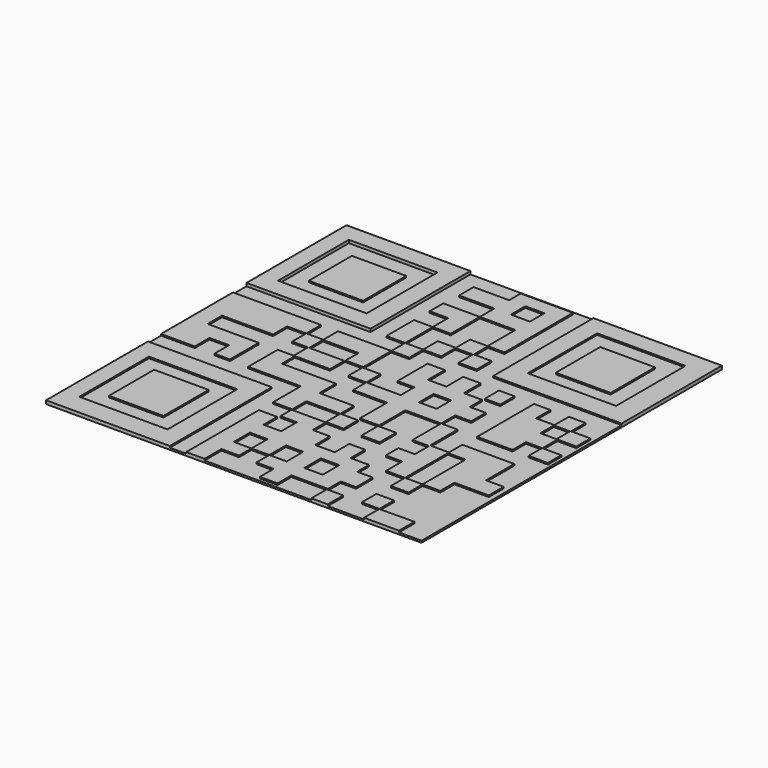
from build123d import *

# Parameters (mm, degrees)
F0_W        = 635
F0_H        = 635
F1_DEPTH    = 3.175
F2_W        = 209.6944722533
F2_H        = 211.2968239188
F2_W_2      = 149.8261988163
F2_H_2      = 149.8262137175
F3_DEPTH    = 2.54
F2_W_3      = 32.1976058185
F2_H_3      = 30.6512415409
F2_W_4      = 217.3748660088
F2_H_4      = 211.9792598486
F2_W_5      = 149.2767781019
F2_H_5      = 146.6111242771
F2_W_6      = 209.2869701982
F2_H_6      = 215.4600593448
F2_W_7      = 149.2767930031
F2_H_7      = 147.1442580223
F2_W_8      = 29.6232927265
F2_H_8      = 30.9097021818
F2_W_9      = 27.2096395493
F2_H_9      = 28.6465045065
F2_W_10     = 92.231720686
F2_H_10     = 95.430508256
F2_W_11     = 92.76483953
F2_H_11     = 93.8311070204
F2_W_12     = 91.8705165386
F2_H_12     = 91.0118967295
F2_W_13     = 30.6055098772
F2_H_13     = 34.7449108958
F2_W_14     = 29.8553556204
F2_H_14     = 30.9216082096
F2_W_15     = 26.2726545334
F2_H_15     = 30.0752855837
F3_FACE_W   = 209.6944722533
F3_FACE_H   = 211.2968239188
F3_FACE_W_2 = 149.8261988163
F3_FACE_H_2 = 149.8262137175
F4_DEPTH    = 2.54
F2_W_16     = 31.1304271547
F2_H_16     = 35.1866483688
F5_DEPTH    = 2.54


with BuildPart() as f1:
    # F0 (on Top) → F1 (new body)
    with BuildSketch(Plane.XY):
        Rectangle(F0_W, F0_H)
    extrude(amount=-F1_DEPTH)

    # F2 (on face) → F3 (join)
    with BuildSketch(Plane.XY):
        with Locations((-212.6527638733, 211.8515880406)):
            Rectangle(F2_W, F2_H)
        with Locations((-214.0576392412, 212.0259776711)):
            Rectangle(F2_W_2, F2_H_2, mode=Mode.SUBTRACT)
    extrude(amount=F3_DEPTH)

    # F2 (on face) + F3_face (on face) → F4 (join)
    with BuildSketch(Plane.XY):
        Polygon((-168.5702949762, 77.6107981801), (-317.5, 77.6107981801), (-317.5, 16.7245138437), (-317.5, -74.5474770665), (-260.3899538517, -74.5474770665), (-260.3899538517, -43.4351153672), (-227.2034436464, -43.4351153672), (-227.2034436464, -74.5474770665), (-200.9307742119, -74.5474770665), (-200.9307742119, -13.7055246159), (-287.3540222645, -13.7055246159), (-287.3540222645, 16.7245138437), (-201.0654211044, 16.7245138437), (-201.0654211044, 46.4541018009), (-168.5830503702, 46.4541018009), (-168.5702949762, 46.447314322), (-168.5702949762, 16.7245138437), (-141.8288499117, 16.7245138437), (-141.8288499117, -13.5401450098), (-168.9900159836, -13.5401450098), (-168.9900159836, -75.9165138006), (-79.9570903182, -75.9165138006), (-79.9570903182, -134.560957551), (-47.4360659719, -134.560957551), (-47.4360659719, -104.7903824272), (9.5522978624, -104.7903824272), (9.5522978624, -105.1713824272), (9.9332978624, -105.1713824272), (9.9332978624, -135.1788643422), (10.4664437147, -135.1788643422), (39.7886544141, -135.1788643422), (39.7886544141, -104.7903824272), (10.3142978624, -104.7903824272), (10.3142978624, -104.4093824272), (9.9332978624, -104.4093824272), (9.9332978624, -75.9165138006), (-48.5023371875, -75.9165138006), (-48.5023371875, -41.2629768252), (-139.8267149925, -41.2629768252), (-139.8267149925, -13.5401450098), (-80.4902166128, -13.5401450098), (-80.4902166128, 16.7245138437), (-139.8267149925, 16.7245138437), (-139.8267149925, 45.8424836397), (-79.7245129943, 45.8424836397), (-79.7245129943, 18.3671917766), (-49.6734045446, 18.3671917766), (-49.6734045446, 77.4913057685), (-49.6047325432, 77.6107981801), (-19.1930029541, 77.6107981801), (-19.1930029541, 106.7331805825), (-19.1227328032, 106.8032905459), (11.2873986363, 106.8032905459), (11.2873986363, 136.7472559214), (40.9091971815, 136.7472559214), (40.9091971815, 106.8032905459), (71.3896006346, 106.8032905459), (71.3896006346, 137.7130001783), (41.783683002, 137.7130001783), (41.783683002, 167.7640974522), (69.6723908186, 167.7640974522), (69.6723908186, 226.578399539), (69.6723908186, 257.3172748089), (69.6723908186, 312.4386966228), (40.9091971815, 312.4386966228), (-18.7637023628, 312.4386966228), (-18.7637023628, 287.9685163498), (-78.8659080863, 287.9685163498), (-78.8659080863, 257.3172748089), (-19.1930029541, 257.3172748089), (-19.1930029541, 226.578399539), (-81.0124129057, 226.578399539), (-81.0124129057, 197.8152096272), (-49.6734045446, 197.8152096272), (-49.6734045446, 165.1882976294), (-81.4417153597, 165.1882976294), (-81.4417153597, 106.8032905459), (-49.6734045446, 106.8032905459), (-49.6734045446, 77.6107981801), (-139.8267149925, 77.6107981801), (-139.8267149925, 46.4541018009), (-168.5702949762, 46.4541018009), align=None)
        Polygon((-19.1930029541, 226.2380719185), (-18.9881902188, 226.578399539), (40.9091971815, 226.578399539), (40.9091971815, 167.7640974522), (11.2873986363, 167.7640974522), (11.2873986363, 137.7130001783), (-19.1930029541, 137.7130001783), (-19.1930029541, 106.8032905459), (-49.6560074389, 106.8032905459), (-49.6734045446, 106.8312078714), (-49.6734045446, 165.1445329189), (-49.6125072241, 165.1882976294), (-19.1930029541, 165.1882976294), align=None, mode=Mode.SUBTRACT)
        with Locations((24.8103942722, 272.6428955793)):
            Rectangle(F2_W_3, F2_H_3, mode=Mode.SUBTRACT)
        with Locations((208.8125669956, 211.5103700757)):
            Rectangle(F2_W_4, F2_H_4)
        with Locations((205.685146153, 213.4798318148)):
            Rectangle(F2_W_5, F2_H_5, mode=Mode.SUBTRACT)
        with Locations((-212.8565149009, -209.7699703276)):
            Rectangle(F2_W_6, F2_H_6)
        with Locations((-214.839309454, -208.6662054062)):
            Rectangle(F2_W_7, F2_H_7, mode=Mode.SUBTRACT)
        Polygon((-49.6734045446, 16.7245138437), (-49.6734045446, -13.4011181071), (-19.5731539279, -13.4011181071), (-19.1930029541, -13.6714540422), (-19.1930029541, -41.3777343929), (10.5342995375, -41.3777343929), (38.3413806558, -41.3777343929), (38.3413806558, -45.5287843943), (38.3413806558, -98.9071950316), (70.7829669118, -98.9071950316), (70.7829669118, -43.4368926706), (100.4062596383, -43.4368926706), (130.9349692707, -43.4368926706), (130.9349692707, -43.8178926706), (131.3159692707, -43.8178926706), (131.3159692707, -103.8126278343), (159.1561358747, -103.8126278343), (159.1561358747, -133.6679834547), (131.3159692707, -133.6679834547), (131.3159692707, -160.3245515051), (159.1561358747, -160.3245515051), (159.1561358747, -194.5538896742), (190.7630115747, -194.5538896742), (190.7630115747, -194.9348896742), (191.1440115747, -194.9348896742), (191.1440115747, -224.4092303934), (220.9993671951, -224.4092303934), (220.9993671951, -194.9348896742), (221.3803671951, -194.9348896742), (221.3803671951, -194.5538896742), (250.8547228155, -194.5538896742), (250.8547228155, -164.6985340538), (279.1106921015, -164.6985340538), (308.9660328207, -164.6985340538), (308.9660328207, -133.2437771978), (279.1106921015, -133.2437771978), (279.1106921015, -73.4241384687), (250.8547228155, -73.4241384687), (220.9993671951, -73.4241384687), (191.1440115747, -73.4241384687), (191.1440115747, -101.5461832285), (159.1561358747, -101.5461832285), (159.1561358747, -43.4368926706), (131.6969692707, -43.4368926706), (131.6969692707, -43.0558926706), (131.3159692707, -43.0558926706), (131.3159692707, -13.5922845128), (158.3505052748, -13.5922845128), (158.3505052748, 17.174385148), (131.3159692707, 17.174385148), (131.3159692707, 43.1890413165), (100.4062596383, 43.1890413165), (100.4062596383, 78.9410024881), (70.7829669118, 78.9410024881), (70.7829669118, 43.1890413165), (39.6655276418, 43.1890413165), (39.6655276418, 78.9410024881), (10.5342995375, 78.9410024881), (10.5342995375, 15.3819601983), (39.0034504235, 15.3819601983), (39.0034504235, -11.1009739339), (39.0034504235, -13.4011181071), (14.6812312305, -13.4011181071), (10.5342995375, -13.4011181071), (-18.9681909978, -13.4011181071), (-19.1930029541, -13.0232796073), (-19.1930029541, 16.7245138437), align=None)
        Polygon((191.1440115747, -194.1728896742), (191.1440115747, -103.8126278343), (220.9993671951, -103.8126278343), (220.9993671951, -194.1728896742), (220.6183671951, -194.1728896742), (220.6183671951, -194.5538896742), (191.5250115747, -194.5538896742), (191.5250115747, -194.1728896742), align=None, mode=Mode.SUBTRACT)
        with Locations((85.5946132751, 1.1231061071)):
            Rectangle(F2_W_8, F2_H_8, mode=Mode.SUBTRACT)
        Polygon((219.9437171221, 76.8919065595), (192.2882795334, 76.8919065595), (192.2882795334, -43.4092320502), (252.0931512117, -43.4092320502), (252.0931512117, -15.0624141097), (279.4028818607, -15.0624141097), (279.4028818607, -43.4092320502), (311.8980228901, -43.4092320502), (311.8980228901, -15.0624141097), (279.9746692181, -15.0624141097), (279.9746692181, 16.7413335294), (311.8980228901, 16.7413335294), (311.8980228901, 46.4709252119), (279.4028818607, 46.4709252119), (279.4028818607, 76.8919065595), (251.0560750961, 76.8919065595), (251.0560750961, 46.4709252119), (219.9437171221, 46.4709252119), align=None)
        with Locations((264.6608948708, 31.0645857826)):
            Rectangle(F2_W_9, F2_H_9, mode=Mode.SUBTRACT)
        with Locations((-214.5727425814, -207.866512239)):
            Rectangle(F2_W_10, F2_H_10)
        with Locations((205.1520124078, 211.6138711572)):
            Rectangle(F2_W_11, F2_H_11)
        with Locations((-214.2723053694, 211.8113264441)):
            Rectangle(F2_W_12, F2_H_12)
        Polygon((220.1958745718, -317.5), (279.3734669685, -317.5), (279.3734669685, -284.9040031433), (220.29915452, -285.4377627373), align=None)
        with Locations((86.0857218504, -118.5154058039)):
            Rectangle(F2_W_13, F2_H_13)
        with Locations((205.2681967616, -269.4431990385)):
            Rectangle(F2_W_14, F2_H_14)
        Polygon((131.1629265547, -317.5), (158.8857620955, -317.5), (158.8857620955, -284.7712635994), (131.1584562063, -284.7712635994), align=None)
        with Locations((145.2740430832, 62.8913398832)):
            Rectangle(F2_W_15, F2_H_15)
    with BuildSketch(Plane(origin=(-211.2100988162, 211.67250751, 2.54), x_dir=(1, 0, 0), z_dir=(0, 0, 1))):
        with Locations((-1.4426650571, 0.1790805306)):
            Rectangle(F3_FACE_W, F3_FACE_H)
        with Locations((-2.847540425, 0.3534701612)):
            Rectangle(F3_FACE_W_2, F3_FACE_H_2, mode=Mode.SUBTRACT)
    extrude(amount=F4_DEPTH)

    # F2 (on face) → F5 (join)
    with BuildSketch(Plane.XY):
        Polygon((-80.4902017117, -163.8831794262), (-80.4902017117, -317.5), (-49.5685823262, -317.5), (-49.5685823262, -281.7052006721), (-19.7132304311, -281.7052006721), (-19.7132304311, -255.5852234364), (-19.7200458497, -255.581766367), (-49.5685823262, -255.581766367), (-49.5685823262, -221.4613556862), (-19.7132304311, -221.4613556862), (-19.7132304311, -255.5750906467), (-19.7072178125, -255.581766367), (10.455345735, -255.581766367), (10.4664437147, -255.5719614029), (10.4664437147, -220.3951179981), (39.7886581393, -220.3951179981), (39.7886581393, -255.581766367), (10.4872537777, -255.581766367), (10.4664437147, -255.6018829346), (10.4664437147, -282.7714681625), (39.7886581393, -282.7714681625), (39.7886581393, -312.0937049389), (69.644017485, -312.0937049389), (69.644017485, -282.7714681625), (131.4872488054, -282.7714681625), (131.4872488054, -255.581766367), (157.2863608599, -255.581766367), (157.2863608599, -220.3951179981), (130.9541299614, -220.3951179981), (130.9541299614, -195.3803153546), (99.7081771493, -195.3803153546), (99.7081771493, -164.725266567), (73.0516165495, -164.725266567), (73.0516165495, -195.3803153546), (39.7886581393, -195.3803153546), (39.7886581393, -163.8831794262), (10.4664437147, -163.8831794262), (10.4664437147, -136.1603587866), (-47.4360659719, -136.1603587866), (-47.4360659719, -159.6181243658), (-19.7132304311, -159.6181243658), (-19.7132304311, -192.6722675562), (-49.5685823262, -192.6722675562), (-49.5685823262, -163.8831794262), align=None)
        with Locations((85.2092310624, -237.9884421825)):
            Rectangle(F2_W_16, F2_H_16, mode=Mode.SUBTRACT)
    extrude(amount=F5_DEPTH)


solid = f1.part
